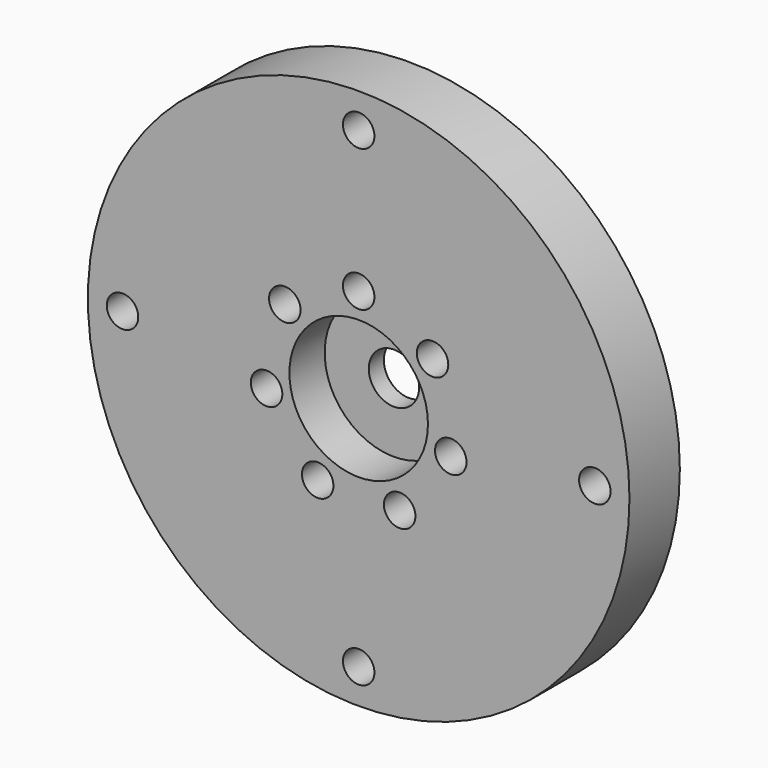
from build123d import *

# Parameters (mm, degrees)
SKETCH008_R           = 43
SKETCH008_R_2         = 4
PAD002_DEPTH          = 10
SKETCH009_R           = 11
POCKET002_DEPTH       = 7
SKETCH010_R           = 2.5
POCKET003_DEPTH       = 254.066565
POLARPATTERN001_COUNT = 7
SKETCH011_R           = 2.5
POCKET004_DEPTH       = 254.066565
POLARPATTERN002_COUNT = 4


with BuildPart() as sidecap:
    # Sketch008 → Pad002 (new body)
    with BuildSketch(Plane.XZ):
        Circle(SKETCH008_R)
        Circle(SKETCH008_R_2, mode=Mode.SUBTRACT)
    extrude(amount=PAD002_DEPTH)

    # Sketch009 (on Face3 of Pad002) → Pocket002 (cut)
    with BuildSketch(Plane(origin=(0, 0, 0), x_dir=(1, 0, 0), z_dir=(0, 1, 0))):
        Circle(SKETCH009_R)
    extrude(amount=-POCKET002_DEPTH, mode=Mode.SUBTRACT)

    # Sketch010 (on Face3 of Pocket002) → Pocket003 (cut, through all)
    with BuildSketch(Plane.XZ.offset(10)):
        with Locations((0, 15)):
            Circle(SKETCH010_R)
    pocket003 = extrude(amount=-POCKET003_DEPTH, mode=Mode.SUBTRACT)

    # PolarPattern001: Pocket003 ×7 about axis
    polarpattern001_axis = Axis((0, -10, 0), (0, -1, 0))
    for i in range(1, POLARPATTERN001_COUNT):
        add(pocket003.rotate(polarpattern001_axis, i * 360 / POLARPATTERN001_COUNT), mode=Mode.SUBTRACT)

    # Sketch011 (on Face3 of PolarPattern001) → Pocket004 (cut, through all)
    with BuildSketch(Plane.XZ.offset(10)):
        with Locations((0, 37.5)):
            Circle(SKETCH011_R)
    pocket004 = extrude(amount=-POCKET004_DEPTH, mode=Mode.SUBTRACT)

    # PolarPattern002: Pocket004 ×4 about axis
    polarpattern002_axis = Axis((0, -10, 0), (0, -1, 0))
    for i in range(1, POLARPATTERN002_COUNT):
        add(pocket004.rotate(polarpattern002_axis, i * 360 / POLARPATTERN002_COUNT), mode=Mode.SUBTRACT)


with BuildPart() as sidecap_1:
    # Body003 placement: moved
    add(sidecap.part.moved(Location((0, -21, 0))))


with BuildPart() as part_mirroring:
    # Part__Mirroring: instance of SideCap
    add(sidecap_1.part.mirror(Plane(origin=(0, 0, 0), x_dir=(1, 0, 0), z_dir=(0, 1, 0))))


solid = part_mirroring.part
